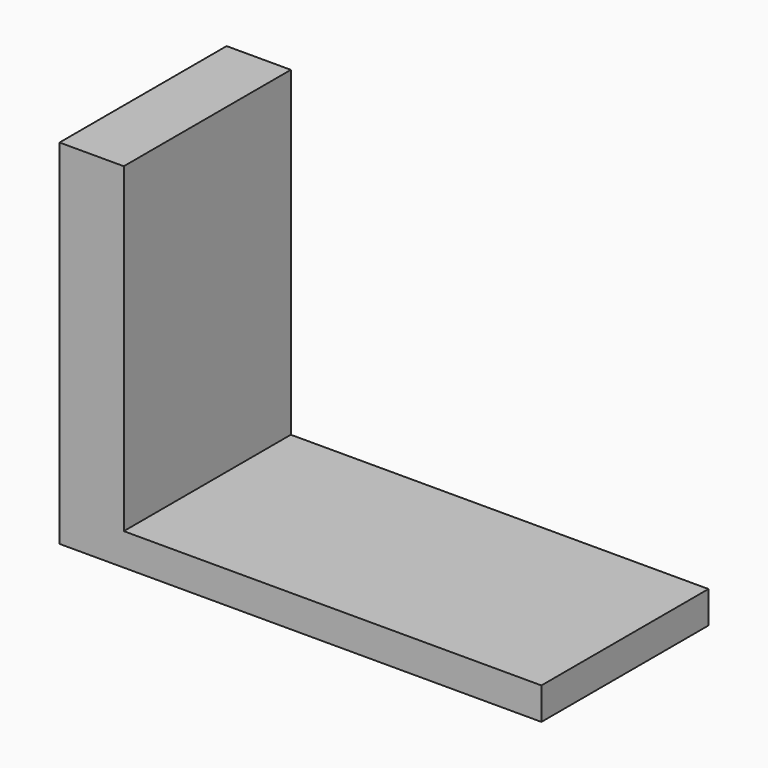
from build123d import *

# Parameters (mm, degrees)
F1_DEPTH = 82.55
F2_W     = 25.4
F2_H     = 82.55
F3_DEPTH = 127


with BuildPart() as f1:
    # F0 (on Front) → F1 (new body)
    with BuildSketch(Plane.XZ):
        Polygon((0, 12.7), (0, 0), (190.5, 0), (190.5, 12.7), (38.1, 12.7), align=None)
    extrude(amount=F1_DEPTH)

    # F2 (on face) → F3 (join)
    with BuildSketch(Plane.XY.offset(12.7)):
        with Locations((12.7, -41.275)):
            Rectangle(F2_W, F2_H)
    extrude(amount=F3_DEPTH)


solid = f1.part
